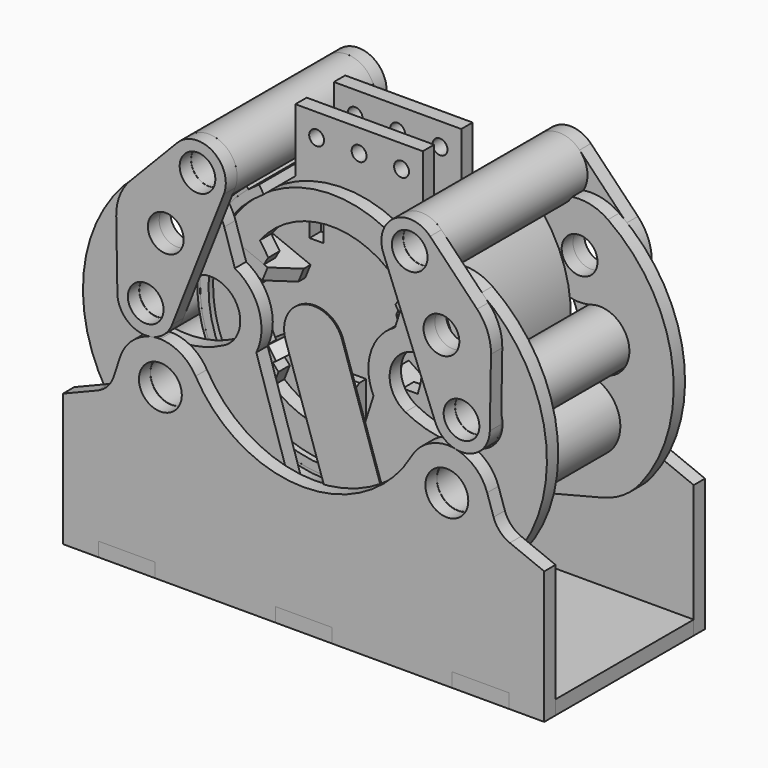
from build123d import *

# Parameters (mm, degrees)
F1_DEPTH       = 100
F2_W           = 40
F2_H           = 40
F3_DEPTH       = 92.001
F4_R           = 20
F4_R_2         = 12.5
F5_DEPTH       = 111
F5_DEPTH_BACK  = 11
F6_R           = 20
F6_R_2         = 12.5
F7_DEPTH       = 101
F7_DEPTH_BACK  = 1
F8_R           = 20
F8_R_2         = 12.5
F9_DEPTH       = 111
F9_DEPTH_BACK  = 11
F10_R          = 12.6
F10_R_2        = 12.65
F11_DEPTH      = 10
F12_R          = 12.65
F12_R_2        = 20
F13_DEPTH      = 10
F16_R          = 25
F16_R_2        = 15
F17_DEPTH      = 122
F21_DEPTH      = 10
F20_R          = 15.15
F23_W          = 340
F23_H          = 142
F24_DEPTH      = 10
F27_W          = 10
F27_H          = 20
F27_R          = 5.25
F28_DEPTH      = 10
F31_DEPTH      = 5
F31_DEPTH_BACK = 5
F33_COUNT      = 3
F33_ANGLE      = 112
F34_COUNT      = 3
F34_ANGLE      = 112
F35_R          = 84
F36_DEPTH      = 10
F39_DEPTH      = 96
F39_DEPTH_BACK = 4
F41_W          = 44
F41_H          = 40
F42_DEPTH      = 10
F45_DEPTH      = 1


with BuildPart() as f1:
    # F0 (on Front) → F1 (new body)
    with BuildSketch(Plane.XZ):
        with BuildLine():
            ThreePointArc((55.7451562811, 70.6574663514), (0, -90), (-55.7451562811, 70.6574663514))
            Line((-55.7451562811, 70.6574663514), (-56.9839375318, 72.2276322703))
            ThreePointArc((-56.9839375318, 72.2276322703), (0, -92), (56.9839375318, 72.2276322703))
            Line((56.9839375318, 72.2276322703), (55.7451562811, 70.6574663514))
        make_face()
    extrude(amount=F1_DEPTH)

    # F2 (on Top) → F3 (cut, through all)
    with BuildSketch(Plane.XY):
        with Locations((0, -20)):
            Rectangle(F2_W, F2_H)
    extrude(amount=-F3_DEPTH, mode=Mode.SUBTRACT)


with BuildPart() as f5:
    # F4 (on Front) → F5 (new body, two sides)
    with BuildSketch(Plane.XZ) as f5_sk:
        with Locations((74.9585821259, 83.2178524457)):
            Circle(F4_R)
        with Locations((74.9585821259, 83.2178524457)):
            Circle(F4_R_2, mode=Mode.SUBTRACT)
    extrude(amount=F5_DEPTH)
    extrude(f5_sk.sketch, amount=-F5_DEPTH_BACK)


with BuildPart() as f7:
    # F6 (on Front) → F7 (new body, two sides)
    with BuildSketch(Plane.XZ) as f7_sk:
        with Locations((35.3761037794, -106.2663224234)):
            Circle(F6_R)
        with Locations((35.3761037794, -106.2663224234)):
            Circle(F6_R_2, mode=Mode.SUBTRACT)
    extrude(amount=F7_DEPTH)
    extrude(f7_sk.sketch, amount=-F7_DEPTH_BACK)


with BuildPart() as f9:
    # F8 (on Front) → F9 (new body, two sides)
    with BuildSketch(Plane.XZ) as f9_sk:
        with Locations((111.5668727132, -9.8403715879)):
            Circle(F8_R)
        with Locations((111.5668727132, -9.8403715879)):
            Circle(F8_R_2, mode=Mode.SUBTRACT)
    extrude(amount=F9_DEPTH)
    extrude(f9_sk.sketch, amount=-F9_DEPTH_BACK)


with BuildPart() as f11:
    # F10 (on face) → F11 (new body)
    with BuildSketch(Plane.XZ.offset(111)):
        with BuildLine():
            Line((122.5941280972, 62.5906422734), (89.363551638, 97.0921759736))
            ThreePointArc((89.363551638, 97.0921759736), (64.1538869088, 100.0481394683), (56.3469373192, 75.8961943282))
            Line((56.3469373192, 75.8961943282), (92.9552279065, -17.1620297053))
            ThreePointArc((92.9552279065, -17.1620297053), (115.1253527594, -29.5212562164), (131.5639679927, -10.1812240252))
            Line((131.5639679927, -10.1812240252), (132.3803481902, 37.7140843342))
            ThreePointArc((132.3803481902, 37.7140843342), (129.9558098628, 51.1234778052), (122.5941280972, 62.5906422734))
        make_face()
        with Locations((111.5668727132, -9.8403715879)):
            Circle(F10_R, mode=Mode.SUBTRACT)
        with Locations((74.9585821259, 83.2178524457)):
            Circle(F10_R, mode=Mode.SUBTRACT)
        with Locations((97.3854314511, 38.3105760996)):
            Circle(F10_R_2, mode=Mode.SUBTRACT)
    extrude(amount=F11_DEPTH)


with BuildPart() as f13:
    # F12 (on face) → F13 (new body)
    with BuildSketch(Plane.XZ.offset(101)):
        with BuildLine():
            Line((41.4128260512, -21.7720420224), (16.3274515844, -100.171336816))
            ThreePointArc((16.3274515844, -100.171336816), (20.7986601209, -119.9593183112), (40.2684516542, -125.6587160939))
            Line((40.2684516542, -125.6587160939), (113.4279743668, -107.2019004194))
            ThreePointArc((113.4279743668, -107.2019004194), (128.3541314952, -100.7030064072), (140.4013636293, -89.7535777503))
            ThreePointArc((140.4013636293, -89.7535777503), (162.753824824, -6.4275933093), (117.4473150306, 66.9902000031))
            ThreePointArc((117.4473150306, 66.9902000031), (86.1976935385, 71.4743292105), (64.0502901099, 48.9768009126))
            Line((64.0502901099, 48.9768009126), (56.5892178239, 25.6587194385))
            ThreePointArc((56.5892178239, 25.6587194385), (39.47669584, 4.9908315117), (41.4128260512, -21.7720420224))
        make_face()
        with Locations((35.3761037794, -106.2663224234)):
            Circle(F12_R, mode=Mode.SUBTRACT)
        with Locations((101.1971046798, -58.7209162431)):
            Circle(F12_R_2, mode=Mode.SUBTRACT)
        with BuildLine():
            ThreePointArc((117.4998342806, -29.9848489214), (90.1528442827, -32.5169888934), (63.8820976115, -24.5096507514))
            ThreePointArc((63.8820976115, -24.5096507514), (55.2347616212, 3.9020295979), (83.6464419705, 12.5493655882))
            ThreePointArc((83.6464419705, 12.5493655882), (94.4195045526, 9.2657301438), (105.6339111459, 10.3041057457))
            ThreePointArc((105.6339111459, 10.3041057457), (131.7113500468, -3.9074100205), (117.4998342806, -29.9848489214))
        make_face(mode=Mode.SUBTRACT)
        with Locations((97.3854314511, 38.3105760996)):
            Circle(F12_R, mode=Mode.SUBTRACT)
    extrude(amount=F13_DEPTH)


with BuildPart() as f15_1:
    # F15: instance of F13
    add(f13.part.mirror(Plane(origin=(111.5668727132, -50, -9.8403715879), x_dir=(1, 0, 0), z_dir=(0, -1, 0))))


with BuildPart() as f15_2:
    # F15: instance of F11
    add(f11.part.mirror(Plane(origin=(111.5668727132, -50, -9.8403715879), x_dir=(1, 0, 0), z_dir=(0, -1, 0))))


with BuildPart() as f17:
    # F16 (on face) → F17 (new body, through all)
    with BuildSketch(Plane.XZ.offset(111)):
        with Locations((101.1971046798, -58.7209162431)):
            Circle(F16_R)
        with Locations((101.1971046798, -58.7209162431)):
            Circle(F16_R_2, mode=Mode.SUBTRACT)
    extrude(amount=-F17_DEPTH)

    # F18: cut F13, F15_1
    add(f13.part, mode=Mode.SUBTRACT)
    add(f15_1.part, mode=Mode.SUBTRACT)


with BuildPart() as f19_1:
    # F19: instance of F11
    add(f11.part.mirror(Plane.YZ))


with BuildPart() as f19_2:
    # F19: instance of F13
    add(f13.part.mirror(Plane.YZ))


with BuildPart() as f19_3:
    # F19: instance of F7
    add(f7.part.mirror(Plane.YZ))


with BuildPart() as f19_4:
    # F19: instance of F17
    add(f17.part.mirror(Plane.YZ))


with BuildPart() as f19_5:
    # F19: instance of F15_1
    add(f15_1.part.mirror(Plane.YZ))


with BuildPart() as f19_6:
    # F19: instance of F15_2
    add(f15_2.part.mirror(Plane.YZ))


with BuildPart() as f19_7:
    # F19: instance of F5
    add(f5.part.mirror(Plane.YZ))


with BuildPart() as f19_8:
    # F19: instance of F9
    add(f9.part.mirror(Plane.YZ))


with BuildPart() as f21:
    # F20 (on face) → F21 (new body)
    with BuildSketch(Plane.XZ.offset(111)):
        with BuildLine():
            ThreePointArc((101.1971046798, -28.7209162431), (101.4857467223, -28.7223048457), (101.7743620442, -28.726470525))
            ThreePointArc((101.7743620442, -28.726470525), (102.0629773661, -28.7223048457), (102.3516194086, -28.7209162431))
            Line((102.3516194086, -28.7209162431), (101.1971046798, -28.7209162431))
        make_face()
    extrude(amount=F21_DEPTH)


with BuildPart() as f21b:
    # F20 (on face) → F21, piece 2 (new body)
    with BuildSketch(Plane.XZ.offset(111)):
        with BuildLine():
            ThreePointArc((-76.3300212539, -43.7918697406), (-87.0671062625, -32.9065082916), (-101.7743620442, -28.726470525))
            ThreePointArc((-101.7743620442, -28.726470525), (-119.0017902553, -34.5756647108), (-129.6811030896, -49.3048748994))
            Line((-129.6811030896, -49.3048748994), (-134.2077724065, -62.998277139))
            ThreePointArc((-134.2077724065, -62.998277139), (-138.6048939486, -70.3981742277), (-145.7049728115, -75.2645933345))
            Line((-145.7049728115, -75.2645933345), (-170, -85.080421476))
            Line((-170, -85.080421476), (-170, -178.7209162431))
            Line((-170, -178.7209162431), (-145, -178.7209162431))
            Line((-145, -178.7209162431), (-145, -168.7209162431))
            Line((-145, -168.7209162431), (-105, -168.7209162431))
            Line((-105, -168.7209162431), (-105, -178.7209162431))
            Line((-105, -178.7209162431), (-20, -178.7209162431))
            Line((-20, -178.7209162431), (-20, -168.7209162431))
            Line((-20, -168.7209162431), (20, -168.7209162431))
            Line((20, -168.7209162431), (20, -178.7209162431))
            Line((20, -178.7209162431), (105, -178.7209162431))
            Line((105, -178.7209162431), (105, -168.7209162431))
            Line((105, -168.7209162431), (145, -168.7209162431))
            Line((145, -168.7209162431), (145, -178.7209162431))
            Line((145, -178.7209162431), (170, -178.7209162431))
            Line((170, -178.7209162431), (170, -85.080421476))
            Line((170, -85.080421476), (145.7049728115, -75.2645933345))
            ThreePointArc((145.7049728115, -75.2645933345), (138.6048939486, -70.3981742277), (134.2077724065, -62.998277139))
            Line((134.2077724065, -62.998277139), (129.6811030896, -49.3048748994))
            ThreePointArc((129.6811030896, -49.3048748994), (119.0017902553, -34.5756647108), (101.7743620442, -28.726470525))
            ThreePointArc((101.7743620442, -28.726470525), (87.0671062625, -32.9065082916), (76.3300212539, -43.7918697406))
            ThreePointArc((76.3300212539, -43.7918697406), (0, -88), (-76.3300212539, -43.7918697406))
        make_face()
        with Locations((-101.1971046798, -58.7209162431)):
            Circle(F20_R, mode=Mode.SUBTRACT)
        with Locations((101.1971046798, -58.7209162431)):
            Circle(F20_R, mode=Mode.SUBTRACT)
    extrude(amount=F21_DEPTH)


with BuildPart() as f21c:
    # F20 (on face) → F21, piece 3 (new body)
    with BuildSketch(Plane.XZ.offset(111)):
        with BuildLine():
            Line((-101.1971046798, -28.7209162431), (-102.3516194086, -28.7209162431))
            ThreePointArc((-102.3516194086, -28.7209162431), (-102.0629773661, -28.7223048457), (-101.7743620442, -28.726470525))
            ThreePointArc((-101.7743620442, -28.726470525), (-101.4857467223, -28.7223048457), (-101.1971046798, -28.7209162431))
        make_face()
    extrude(amount=F21_DEPTH)


with BuildPart() as f22_1:
    # F22: instance of F21b
    add(f21b.part.mirror(Plane(origin=(111.5668727132, -50, -9.8403715879), x_dir=(1, 0, 0), z_dir=(0, -1, 0))))


with BuildPart() as f24:
    # F23 (on face) → F24 (new body)
    with BuildSketch(Plane(origin=(0, 0, -178.7209162431), x_dir=(1, 0, 0), z_dir=(0, 0, -1))):
        with Locations((0, 50)):
            Rectangle(F23_W, F23_H)
    extrude(amount=-F24_DEPTH)

    # F25: cut F21b, F22_1
    add(f21b.part, mode=Mode.SUBTRACT)
    add(f22_1.part, mode=Mode.SUBTRACT)


with BuildPart() as f28:
    # F27 (on offset) → F28 (new body)
    with BuildSketch(Plane.XZ.offset(62)):
        with BuildLine():
            Line((-45, 80.6574663514), (-45, 70.9295425052))
            ThreePointArc((-45, 70.9295425052), (0, -84), (45, 70.9295425052))
            Line((45, 70.9295425052), (45, 80.6574663514))
            Line((45, 80.6574663514), (45, 115.6574663514))
            Line((45, 115.6574663514), (-45, 115.6574663514))
            Line((-45, 115.6574663514), (-45, 80.6574663514))
        make_face()
        with Locations((-30, 45.6574663514)):
            Rectangle(F27_W, F27_H, mode=Mode.SUBTRACT)
        with Locations((-30, 99.6574663514)):
            Circle(F27_R, mode=Mode.SUBTRACT)
        with Locations((30, 45.6574663514)):
            Rectangle(F27_W, F27_H, mode=Mode.SUBTRACT)
        with Locations((0, 99.6574663514)):
            Circle(F27_R, mode=Mode.SUBTRACT)
        with Locations((30, 99.6574663514)):
            Circle(F27_R, mode=Mode.SUBTRACT)
    extrude(amount=F28_DEPTH)


with BuildPart() as f29_1:
    # F29: instance of F28
    add(f28.part.mirror(Plane(origin=(111.5668727132, -50, -9.8403715879), x_dir=(1, 0, 0), z_dir=(0, -1, 0))))


with BuildPart() as f31:
    # F30 (on Right) → F31 (new body, two sides)
    with BuildSketch(Plane.YZ) as f31_sk:
        Polygon((-96, -51), (-96, -69), (-86, -69), (-86, -84), (-50, -84), (-14, -84), (-14, -69), (-4, -69), (-4, -51), (-22, -39), (-28, -39), (-28, -59), (-38, -59), (-38, -39), (-50, -39), (-62, -39), (-62, -59), (-72, -59), (-72, -39), (-78, -39), align=None)
    extrude(amount=F31_DEPTH)
    extrude(f31_sk.sketch, amount=-F31_DEPTH_BACK)


with BuildPart() as f28_1:
    add(f28.part)

    # F32: cut F31
    add(f31.part, mode=Mode.SUBTRACT)


with BuildPart() as f29_1_1:
    add(f29_1.part)

    # F32: cut F31
    add(f31.part, mode=Mode.SUBTRACT)


with BuildPart() as f33_1:
    # F33: instance of F31
    add(f31.part.rotate(Axis((0, -62, 0), (0, 1, 0)), 1 * F33_ANGLE / (F33_COUNT - 1)))


with BuildPart() as f33_2:
    # F33: instance of F31
    add(f31.part.rotate(Axis((0, -62, 0), (0, 1, 0)), 2 * F33_ANGLE / (F33_COUNT - 1)))


with BuildPart() as f34_1:
    # F34: instance of F31
    add(f31.part.rotate(Axis((0, -62, 0), (0, -1, 0)), 1 * F34_ANGLE / (F34_COUNT - 1)))


with BuildPart() as f34_2:
    # F34: instance of F31
    add(f31.part.rotate(Axis((0, -62, 0), (0, -1, 0)), 2 * F34_ANGLE / (F34_COUNT - 1)))


with BuildPart() as f36:
    # F35 (on face) → F36 (new body)
    with BuildSketch(Plane.XZ.offset(86)):
        Circle(F35_R)
        with BuildLine():
            ThreePointArc((-53.1388056109, 9.6055889069), (-50.0679281466, 20.2287560445), (-44.8974605557, 30.0036337074))
            Line((-44.8974605557, 30.0036337074), (-50.8397582337, 38.8756862671))
            ThreePointArc((-50.8397582337, 38.8756862671), (0, 64), (50.8397582337, 38.8756862671))
            Line((50.8397582337, 38.8756862671), (44.8974605557, 30.0036337074))
            ThreePointArc((44.8974605557, 30.0036337074), (50.0679281466, 20.2287560445), (53.1388056109, 9.6055889069))
            Line((53.1388056109, 9.6055889069), (63.5763824099, 7.3514352118))
            ThreePointArc((63.5763824099, 7.3514352118), (63.6494013036, -6.6898216491), (60.6586365927, -20.4090618773))
            Line((60.6586365927, -20.4090618773), (49.9804809832, -20.4438626655))
            ThreePointArc((49.9804809832, -20.4438626655), (44.768028918, -30.1964167874), (37.6782371069, -38.6826892617))
            Line((37.6782371069, -38.6826892617), (41.6460778747, -48.5963393442))
            ThreePointArc((41.6460778747, -48.5963393442), (30.0461800183, -56.508645943), (17, -61.7008914036))
            Line((17, -61.7008914036), (11, -52.8677595515))
            ThreePointArc((11, -52.8677595515), (0, -54), (-11, -52.8677595515))
            Line((-11, -52.8677595515), (-17, -61.7008914036))
            ThreePointArc((-17, -61.7008914036), (-30.0461800183, -56.508645943), (-41.6460778747, -48.5963393442))
            Line((-41.6460778747, -48.5963393442), (-37.6782371069, -38.6826892617))
            ThreePointArc((-37.6782371069, -38.6826892617), (-44.768028918, -30.1964167874), (-49.9804809832, -20.4438626655))
            Line((-49.9804809832, -20.4438626655), (-60.6586365927, -20.4090618773))
            ThreePointArc((-60.6586365927, -20.4090618773), (-63.6494013036, -6.6898216491), (-63.5763824099, 7.3514352118))
            Line((-63.5763824099, 7.3514352118), (-53.1388056109, 9.6055889069))
        make_face(mode=Mode.SUBTRACT)
    extrude(amount=F36_DEPTH)

    # F37: cut F33_2, F33_1, F31, F34_1, F34_2
    add(f33_2.part, mode=Mode.SUBTRACT)
    add(f33_1.part, mode=Mode.SUBTRACT)
    add(f31.part, mode=Mode.SUBTRACT)
    add(f34_1.part, mode=Mode.SUBTRACT)
    add(f34_2.part, mode=Mode.SUBTRACT)


with BuildPart() as f39:
    # F38 (on face) → F39 (new body, two sides)
    with BuildSketch(Plane.XZ.offset(96)) as f39_sk:
        with BuildLine():
            ThreePointArc((45, 70.9295425052), (0, -84), (-45, 70.9295425052))
            Line((-45, 70.9295425052), (-48.2142857143, 75.9959383985))
            ThreePointArc((-48.2142857143, 75.9959383985), (0, -90), (48.2142857143, 75.9959383985))
            Line((48.2142857143, 75.9959383985), (45, 70.9295425052))
        make_face()
    extrude(amount=-F39_DEPTH)
    extrude(f39_sk.sketch, amount=F39_DEPTH_BACK)


with BuildPart() as f33_2_1:
    add(f33_2.part)

    # F40: cut F39
    add(f39.part, mode=Mode.SUBTRACT)


with BuildPart() as f33_1_1:
    add(f33_1.part)

    # F40: cut F39
    add(f39.part, mode=Mode.SUBTRACT)


with BuildPart() as f31_1:
    add(f31.part)

    # F40: cut F39
    add(f39.part, mode=Mode.SUBTRACT)


with BuildPart() as f34_1_1:
    add(f34_1.part)

    # F40: cut F39
    add(f39.part, mode=Mode.SUBTRACT)


with BuildPart() as f34_2_1:
    add(f34_2.part)

    # F40: cut F39
    add(f39.part, mode=Mode.SUBTRACT)


with BuildPart() as f42:
    # F41 (on face) → F42 (new body)
    with BuildSketch(Plane.YZ.offset(25)):
        with Locations((-50, 45.6574663514)):
            Rectangle(F41_W, F41_H)
    extrude(amount=F42_DEPTH)

    # F43: cut F28, F29_1
    add(f28_1.part, mode=Mode.SUBTRACT)
    add(f29_1_1.part, mode=Mode.SUBTRACT)


with BuildPart() as f45:
    # F44 (on face) → F45 (new body)
    with BuildSketch(Plane.XZ.offset(111)):
        with BuildLine():
            ThreePointArc((15.451168325, -112.899341882), (42.009123238, -126.1912578778), (55.3010392338, -99.6333029648))
            Line((55.3010392338, -99.6333029648), (19.9249354544, 6.6330194586))
            ThreePointArc((19.9249354544, 6.6330194586), (-6.6330194586, 19.9249354544), (-19.9249354544, -6.6330194586))
            Line((-19.9249354544, -6.6330194586), (15.451168325, -112.899341882))
        make_face()
    extrude(amount=F45_DEPTH)


solid = Compound([f1.part, f5.part, f7.part, f9.part, f11.part, f13.part, f15_1.part, f15_2.part, f17.part, f19_1.part, f19_2.part, f19_3.part, f19_4.part, f19_5.part, f19_6.part, f19_7.part, f19_8.part, f21.part, f21b.part, f21c.part, f22_1.part, f24.part, f28_1.part, f29_1_1.part, f36.part, f39.part, f33_2_1.part, f33_1_1.part, f31_1.part, f34_1_1.part, f34_2_1.part, f42.part, f45.part])
